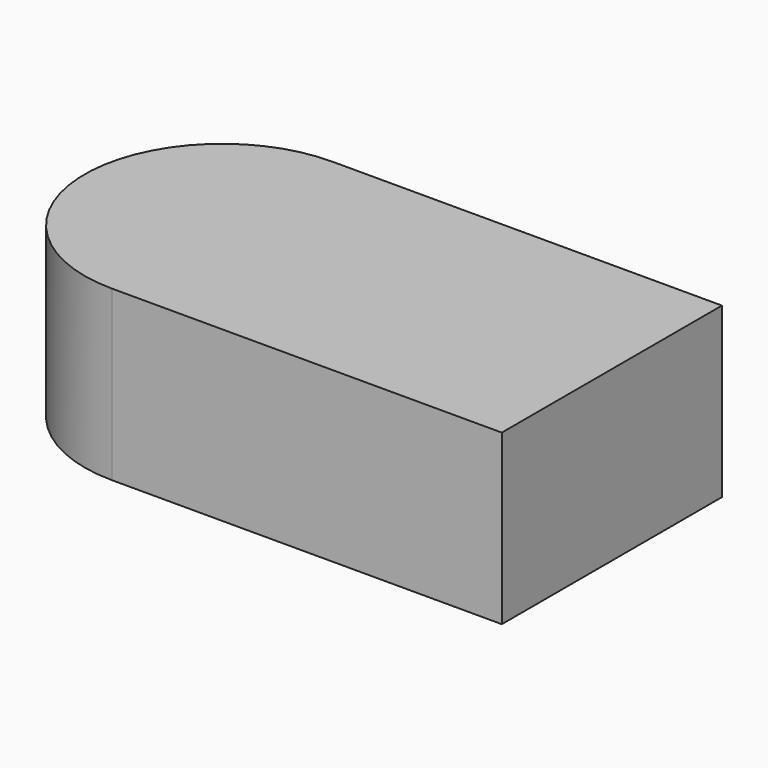
from build123d import *

# Parameters (mm, degrees)
F1_DEPTH = 25


with BuildPart() as f1:
    # F0 (on Top) → F1 (new body)
    with BuildSketch(Plane.XY):
        Polygon((0, 0), (5, 0), (57.751831, 0), (57.751831, 40.776651), (5, 40.776651), (0, 40.776651), (0, 35.776651), (0, 5), align=None)
        with BuildLine():
            ThreePointArc((0, 40.776651), (-20.388326, 20.388326), (0, 0))
            Line((0, 0), (0, 5))
            Line((0, 5), (0, 35.776651))
            Line((0, 35.776651), (0, 40.776651))
        make_face()
    extrude(amount=-F1_DEPTH)


solid = f1.part
